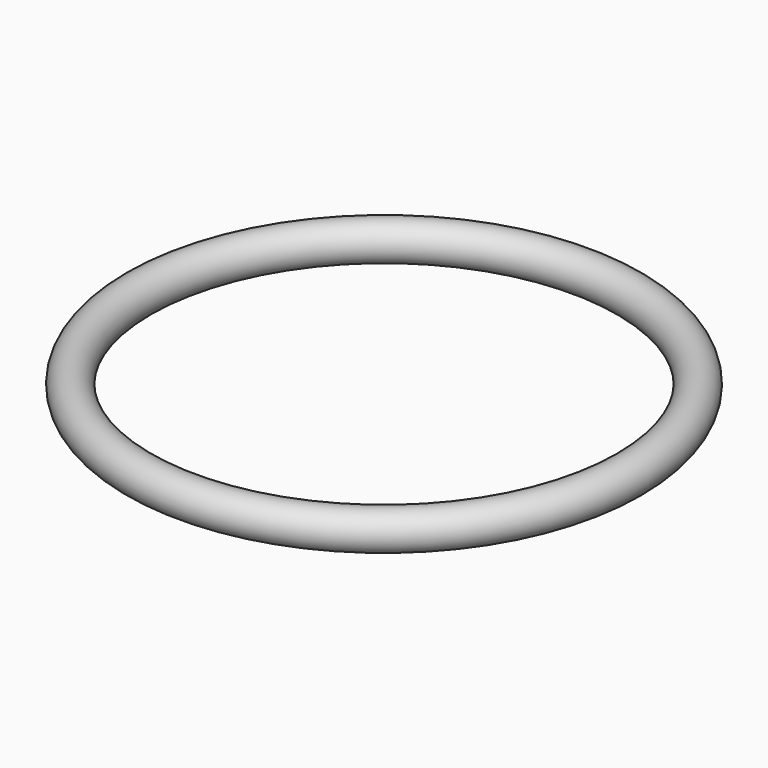
from build123d import *

# Parameters (mm, degrees)
F0_R = 1.5875


with BuildPart() as f1:
    # F0 (on Front) → F1 (revolve)
    with BuildSketch(Plane.XZ):
        with Locations((-20.6375, 0)):
            Circle(F0_R)
    revolve(axis=Axis((0, 0, 1e-06), (0, 0, -1)))


solid = f1.part
